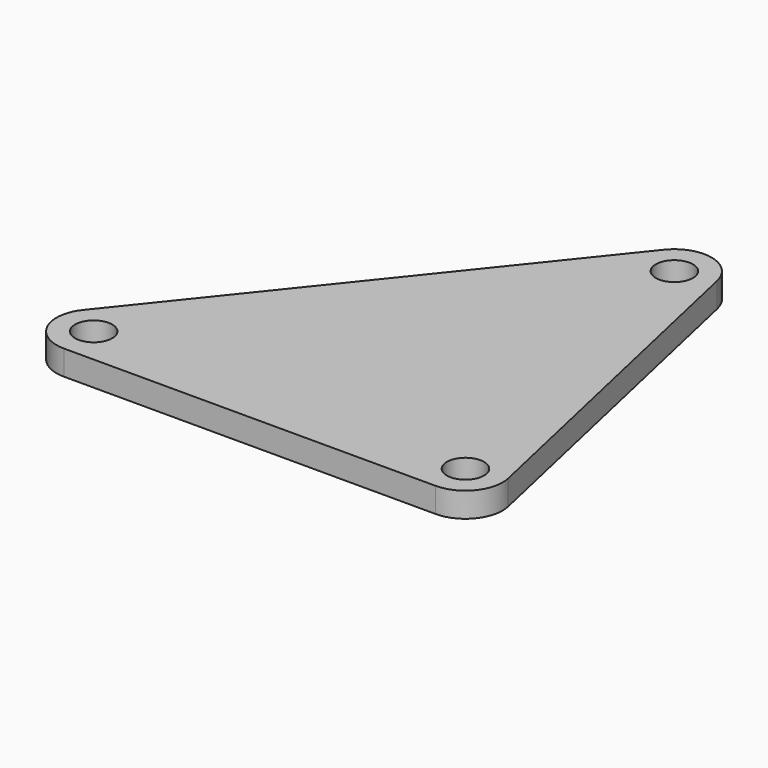
from build123d import *

# Parameters (mm, degrees)
F0_R     = 1.5
F1_DEPTH = 2


with BuildPart() as f1:
    # F0 (on Top) → F1 (new body)
    with BuildSketch(Plane.XY):
        with BuildLine():
            ThreePointArc((-3.746999, 0), (-1.405125, 1.125), (-0.819656, 3.65625))
            Line((-0.819656, 3.65625), (-7.383907, 32.937487))
            ThreePointArc((-7.383907, 32.937487), (-9.635209, 35.204073), (-12.653124, 34.156237))
            Line((-12.653124, 34.156237), (-36.096876, 4.875))
            ThreePointArc((-36.096876, 4.875), (-36.459165, 1.700962), (-33.755002, 0))
            Line((-33.755002, 0), (-3.746999, 0))
        make_face()
        with Locations((-33.755002, 3)):
            Circle(F0_R, mode=Mode.SUBTRACT)
        with Locations((-3.746999, 3)):
            Circle(F0_R, mode=Mode.SUBTRACT)
        with Locations((-10.311249, 32.281237)):
            Circle(F0_R, mode=Mode.SUBTRACT)
    extrude(amount=F1_DEPTH)


solid = f1.part
